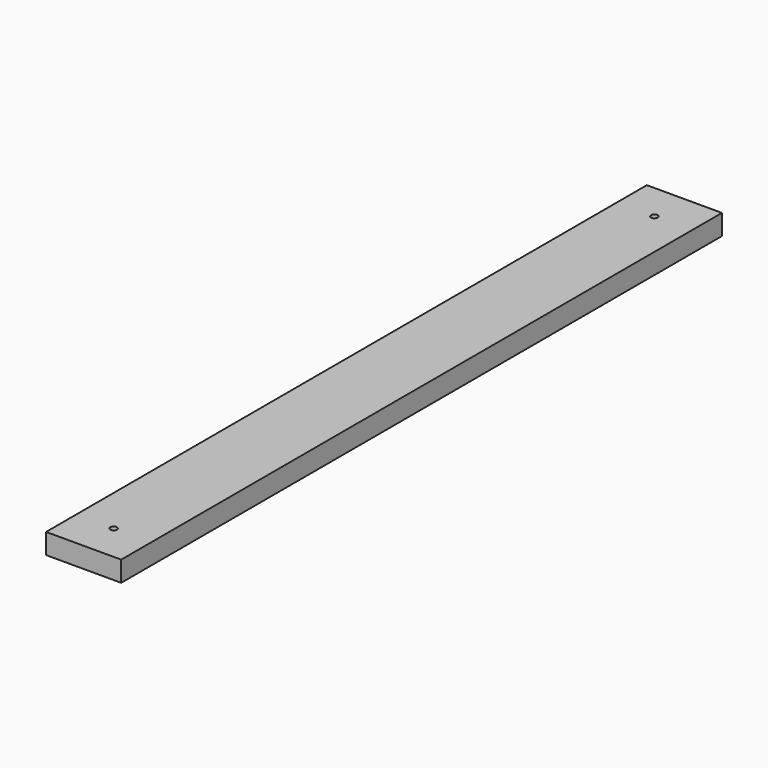
from build123d import *

# Parameters (mm, degrees)
SKETCH_W  = 70
SKETCH_H  = 700
SKETCH_R  = 3.125
PAD_DEPTH = 19.05


with BuildPart() as part:
    # Sketch → Pad (new body)
    with BuildSketch(Plane.XY):
        Rectangle(SKETCH_W, SKETCH_H)
        with Locations((0, 315)):
            Circle(SKETCH_R, mode=Mode.SUBTRACT)
        with Locations((0, -315)):
            Circle(SKETCH_R, mode=Mode.SUBTRACT)
    extrude(amount=PAD_DEPTH)


solid = part.part
